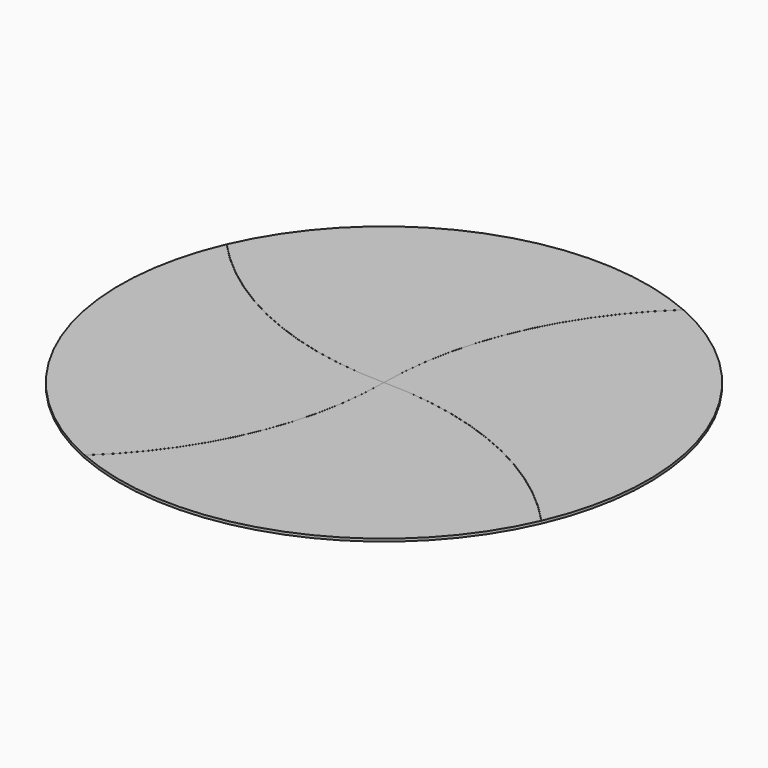
from build123d import *

# Parameters (mm, degrees)
F1_DEPTH = 0.508
F2_COUNT = 4


with BuildPart() as f1:
    # F0 (on Top) → F1 (new body)
    with BuildSketch(Plane.XY):
        with BuildLine():
            ThreePointArc((20.32, 46.558969), (-18.538012, 47.296745), (-46.545432, 20.350989))
            ThreePointArc((-46.545432, 20.350989), (-25.390762, 5.331241), (0, 0))
            ThreePointArc((0, 0), (5.301289, 25.4), (20.32, 46.558969))
        make_face()
    extrude(amount=F1_DEPTH)

    # F2: F1 ×4 about axis
    f2_axis = Axis((0, 0, 0.254), (0, 0, 1))


with BuildPart() as f1_1:
    add(f1.part)
    for i in range(1, F2_COUNT):
        add(f1.part.rotate(f2_axis, i * 360 / F2_COUNT))


solid = f1_1.part
